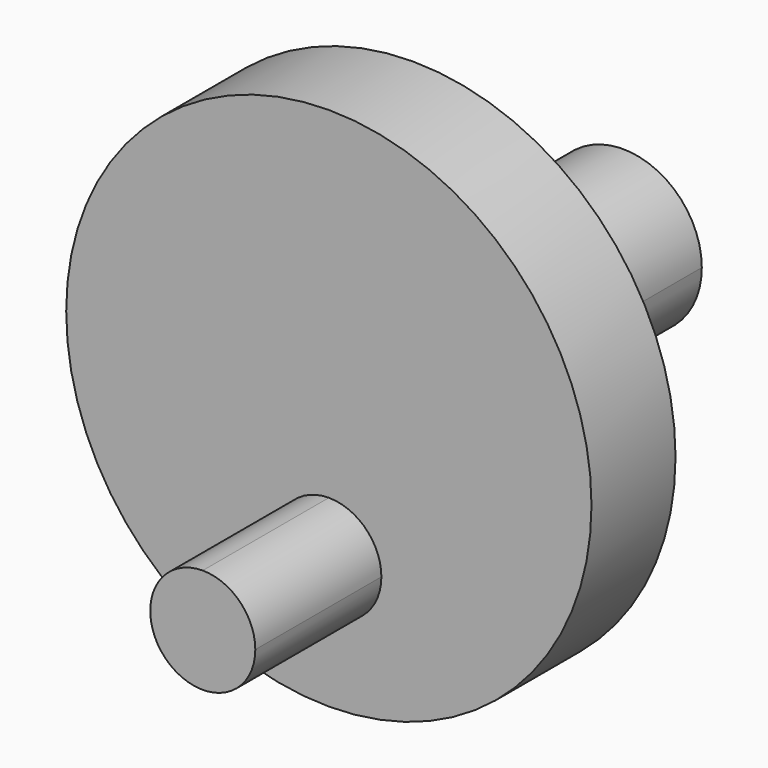
from build123d import *

# Parameters (mm, degrees)
F0_R     = 50
F1_DEPTH = 20
F2_DEPTH = 50
F4_DEPTH = 50


with BuildPart() as f1:
    # F0 (on Front) → F1 (new body)
    with BuildSketch(Plane.XZ):
        Circle(F0_R)
        with BuildLine():
            ThreePointArc((0, -15), (7.071068, -17.928932), (10, -25))
            ThreePointArc((10, -25), (-7.071068, -32.071068), (0, -15))
        make_face(mode=Mode.SUBTRACT)
    extrude(amount=F1_DEPTH)

    # F0 (on Front) → F2 (join)
    with BuildSketch(Plane.XZ):
        with BuildLine():
            ThreePointArc((0, -15), (-7.071068, -32.071068), (10, -25))
            ThreePointArc((10, -25), (7.071068, -17.928932), (0, -15))
        make_face()
    extrude(amount=F2_DEPTH)

    # F3 (on face) → F4 (join)
    with BuildSketch(Plane.XZ):
        with BuildLine():
            ThreePointArc((0, -15), (10.606602, -10.606602), (15, 0))
            ThreePointArc((15, 0), (-10.606602, 10.606602), (0, -15))
        make_face()
    extrude(amount=-F4_DEPTH)


solid = f1.part
